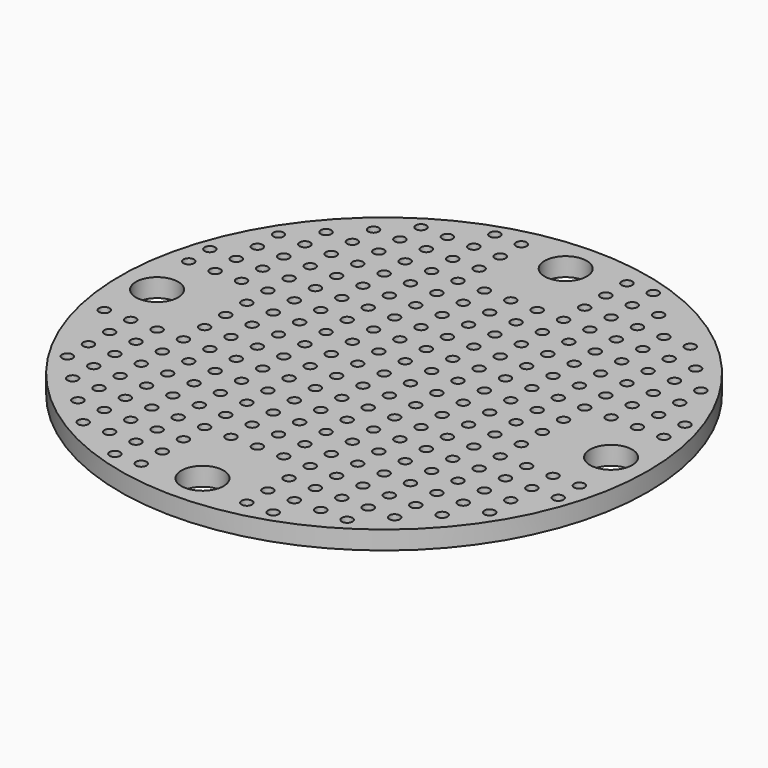
from build123d import *

# Parameters (mm, degrees)
F0_R     = 50
F0_R_2   = 1
F0_R_3   = 4
F1_DEPTH = 3.5


with BuildPart() as f1:
    # F0 (on Top) → F1 (new body)
    with BuildSketch(Plane.XY):
        Circle(F0_R)
        with Locations((-30, -35)):
            Circle(F0_R_2, mode=Mode.SUBTRACT)
        with Locations((-35, -30)):
            Circle(F0_R_2, mode=Mode.SUBTRACT)
        with Locations((-30, -30)):
            Circle(F0_R_2, mode=Mode.SUBTRACT)
        with Locations((-15, -45.000002)):
            Circle(F0_R_2, mode=Mode.SUBTRACT)
        with Locations((-25, -40)):
            Circle(F0_R_2, mode=Mode.SUBTRACT)
        with Locations((-20, -40)):
            Circle(F0_R_2, mode=Mode.SUBTRACT)
        with Locations((-15, -40)):
            Circle(F0_R_2, mode=Mode.SUBTRACT)
        with Locations((-10, -45.000002)):
            Circle(F0_R_2, mode=Mode.SUBTRACT)
        with Locations((-10, -40)):
            Circle(F0_R_2, mode=Mode.SUBTRACT)
        with Locations((-25, -35)):
            Circle(F0_R_2, mode=Mode.SUBTRACT)
        with Locations((-20, -35)):
            Circle(F0_R_2, mode=Mode.SUBTRACT)
        with Locations((-15, -35)):
            Circle(F0_R_2, mode=Mode.SUBTRACT)
        with Locations((-25, -30)):
            Circle(F0_R_2, mode=Mode.SUBTRACT)
        with Locations((-20, -30)):
            Circle(F0_R_2, mode=Mode.SUBTRACT)
        with Locations((-15, -30)):
            Circle(F0_R_2, mode=Mode.SUBTRACT)
        with Locations((-10, -35)):
            Circle(F0_R_2, mode=Mode.SUBTRACT)
        with Locations((-10, -30)):
            Circle(F0_R_2, mode=Mode.SUBTRACT)
        with Locations((-5, -30)):
            Circle(F0_R_2, mode=Mode.SUBTRACT)
        with Locations((-40, -25)):
            Circle(F0_R_2, mode=Mode.SUBTRACT)
        with Locations((-40, -20)):
            Circle(F0_R_2, mode=Mode.SUBTRACT)
        with Locations((-40, -15)):
            Circle(F0_R_2, mode=Mode.SUBTRACT)
        with Locations((-35, -25)):
            Circle(F0_R_2, mode=Mode.SUBTRACT)
        with Locations((-35, -20)):
            Circle(F0_R_2, mode=Mode.SUBTRACT)
        with Locations((-30, -25)):
            Circle(F0_R_2, mode=Mode.SUBTRACT)
        with Locations((-30, -20)):
            Circle(F0_R_2, mode=Mode.SUBTRACT)
        with Locations((-35, -15)):
            Circle(F0_R_2, mode=Mode.SUBTRACT)
        with Locations((-30, -15)):
            Circle(F0_R_2, mode=Mode.SUBTRACT)
        with Locations((-45, -10)):
            Circle(F0_R_2, mode=Mode.SUBTRACT)
        with Locations((-40, -10)):
            Circle(F0_R_2, mode=Mode.SUBTRACT)
        with Locations((-35, -10)):
            Circle(F0_R_2, mode=Mode.SUBTRACT)
        with Locations((-30, -10)):
            Circle(F0_R_2, mode=Mode.SUBTRACT)
        with Locations((-30, -5)):
            Circle(F0_R_2, mode=Mode.SUBTRACT)
        with Locations((-25, -25)):
            Circle(F0_R_2, mode=Mode.SUBTRACT)
        with Locations((-20, -25)):
            Circle(F0_R_2, mode=Mode.SUBTRACT)
        with Locations((-25, -20)):
            Circle(F0_R_2, mode=Mode.SUBTRACT)
        with Locations((-20, -20)):
            Circle(F0_R_2, mode=Mode.SUBTRACT)
        with Locations((-15, -25)):
            Circle(F0_R_2, mode=Mode.SUBTRACT)
        with Locations((-15, -20)):
            Circle(F0_R_2, mode=Mode.SUBTRACT)
        with Locations((-25, -15)):
            Circle(F0_R_2, mode=Mode.SUBTRACT)
        with Locations((-20, -15)):
            Circle(F0_R_2, mode=Mode.SUBTRACT)
        with Locations((-15, -15)):
            Circle(F0_R_2, mode=Mode.SUBTRACT)
        with Locations((-10, -25)):
            Circle(F0_R_2, mode=Mode.SUBTRACT)
        with Locations((-10, -20)):
            Circle(F0_R_2, mode=Mode.SUBTRACT)
        with Locations((-5, -25)):
            Circle(F0_R_2, mode=Mode.SUBTRACT)
        with Locations((-5, -20)):
            Circle(F0_R_2, mode=Mode.SUBTRACT)
        with Locations((-10, -15)):
            Circle(F0_R_2, mode=Mode.SUBTRACT)
        with Locations((-5, -15)):
            Circle(F0_R_2, mode=Mode.SUBTRACT)
        with Locations((-25, -10)):
            Circle(F0_R_2, mode=Mode.SUBTRACT)
        with Locations((-20, -10)):
            Circle(F0_R_2, mode=Mode.SUBTRACT)
        with Locations((-15, -10)):
            Circle(F0_R_2, mode=Mode.SUBTRACT)
        with Locations((-25, -5)):
            Circle(F0_R_2, mode=Mode.SUBTRACT)
        with Locations((-20, -5)):
            Circle(F0_R_2, mode=Mode.SUBTRACT)
        with Locations((-15, -5)):
            Circle(F0_R_2, mode=Mode.SUBTRACT)
        with Locations((-10, -10)):
            Circle(F0_R_2, mode=Mode.SUBTRACT)
        with Locations((-5, -10)):
            Circle(F0_R_2, mode=Mode.SUBTRACT)
        with Locations((-10, -5)):
            Circle(F0_R_2, mode=Mode.SUBTRACT)
        with Locations((-5, -5)):
            Circle(F0_R_2, mode=Mode.SUBTRACT)
        with Locations((10, -45)):
            Circle(F0_R_2, mode=Mode.SUBTRACT)
        with Locations((0, -43)):
            Circle(F0_R_3, mode=Mode.SUBTRACT)
        with Locations((10, -40)):
            Circle(F0_R_2, mode=Mode.SUBTRACT)
        with Locations((15, -45)):
            Circle(F0_R_2, mode=Mode.SUBTRACT)
        with Locations((15, -40)):
            Circle(F0_R_2, mode=Mode.SUBTRACT)
        with Locations((20, -40)):
            Circle(F0_R_2, mode=Mode.SUBTRACT)
        with Locations((10, -35)):
            Circle(F0_R_2, mode=Mode.SUBTRACT)
        with Locations((0, -30)):
            Circle(F0_R_2, mode=Mode.SUBTRACT)
        with Locations((5, -30)):
            Circle(F0_R_2, mode=Mode.SUBTRACT)
        with Locations((10, -30)):
            Circle(F0_R_2, mode=Mode.SUBTRACT)
        with Locations((15, -35)):
            Circle(F0_R_2, mode=Mode.SUBTRACT)
        with Locations((20, -35)):
            Circle(F0_R_2, mode=Mode.SUBTRACT)
        with Locations((15, -30)):
            Circle(F0_R_2, mode=Mode.SUBTRACT)
        with Locations((20, -30)):
            Circle(F0_R_2, mode=Mode.SUBTRACT)
        with Locations((25, -40)):
            Circle(F0_R_2, mode=Mode.SUBTRACT)
        with Locations((25, -35)):
            Circle(F0_R_2, mode=Mode.SUBTRACT)
        with Locations((30, -35)):
            Circle(F0_R_2, mode=Mode.SUBTRACT)
        with Locations((25, -30)):
            Circle(F0_R_2, mode=Mode.SUBTRACT)
        with Locations((30, -30)):
            Circle(F0_R_2, mode=Mode.SUBTRACT)
        with Locations((35, -30)):
            Circle(F0_R_2, mode=Mode.SUBTRACT)
        with Locations((0, -25)):
            Circle(F0_R_2, mode=Mode.SUBTRACT)
        with Locations((5, -25)):
            Circle(F0_R_2, mode=Mode.SUBTRACT)
        with Locations((0, -20)):
            Circle(F0_R_2, mode=Mode.SUBTRACT)
        with Locations((5, -20)):
            Circle(F0_R_2, mode=Mode.SUBTRACT)
        with Locations((10, -25)):
            Circle(F0_R_2, mode=Mode.SUBTRACT)
        with Locations((10, -20)):
            Circle(F0_R_2, mode=Mode.SUBTRACT)
        with Locations((0, -15)):
            Circle(F0_R_2, mode=Mode.SUBTRACT)
        with Locations((5, -15)):
            Circle(F0_R_2, mode=Mode.SUBTRACT)
        with Locations((10, -15)):
            Circle(F0_R_2, mode=Mode.SUBTRACT)
        with Locations((15, -25)):
            Circle(F0_R_2, mode=Mode.SUBTRACT)
        with Locations((15, -20)):
            Circle(F0_R_2, mode=Mode.SUBTRACT)
        with Locations((20, -25)):
            Circle(F0_R_2, mode=Mode.SUBTRACT)
        with Locations((20, -20)):
            Circle(F0_R_2, mode=Mode.SUBTRACT)
        with Locations((15, -15)):
            Circle(F0_R_2, mode=Mode.SUBTRACT)
        with Locations((20, -15)):
            Circle(F0_R_2, mode=Mode.SUBTRACT)
        with Locations((0, -10)):
            Circle(F0_R_2, mode=Mode.SUBTRACT)
        with Locations((5, -10)):
            Circle(F0_R_2, mode=Mode.SUBTRACT)
        with Locations((10, -10)):
            Circle(F0_R_2, mode=Mode.SUBTRACT)
        with Locations((0, -5)):
            Circle(F0_R_2, mode=Mode.SUBTRACT)
        with Locations((5, -5)):
            Circle(F0_R_2, mode=Mode.SUBTRACT)
        with Locations((10, -5)):
            Circle(F0_R_2, mode=Mode.SUBTRACT)
        with Locations((15, -10)):
            Circle(F0_R_2, mode=Mode.SUBTRACT)
        with Locations((20, -10)):
            Circle(F0_R_2, mode=Mode.SUBTRACT)
        with Locations((15, -5)):
            Circle(F0_R_2, mode=Mode.SUBTRACT)
        with Locations((20, -5)):
            Circle(F0_R_2, mode=Mode.SUBTRACT)
        with Locations((25, -25)):
            Circle(F0_R_2, mode=Mode.SUBTRACT)
        with Locations((30, -25)):
            Circle(F0_R_2, mode=Mode.SUBTRACT)
        with Locations((25, -20)):
            Circle(F0_R_2, mode=Mode.SUBTRACT)
        with Locations((30, -20)):
            Circle(F0_R_2, mode=Mode.SUBTRACT)
        with Locations((35, -25)):
            Circle(F0_R_2, mode=Mode.SUBTRACT)
        with Locations((35, -20)):
            Circle(F0_R_2, mode=Mode.SUBTRACT)
        with Locations((25, -15)):
            Circle(F0_R_2, mode=Mode.SUBTRACT)
        with Locations((30, -15)):
            Circle(F0_R_2, mode=Mode.SUBTRACT)
        with Locations((35, -15)):
            Circle(F0_R_2, mode=Mode.SUBTRACT)
        with Locations((40, -25)):
            Circle(F0_R_2, mode=Mode.SUBTRACT)
        with Locations((40, -20)):
            Circle(F0_R_2, mode=Mode.SUBTRACT)
        with Locations((40, -15)):
            Circle(F0_R_2, mode=Mode.SUBTRACT)
        with Locations((45, -15)):
            Circle(F0_R_2, mode=Mode.SUBTRACT)
        with Locations((25, -10)):
            Circle(F0_R_2, mode=Mode.SUBTRACT)
        with Locations((30, -10)):
            Circle(F0_R_2, mode=Mode.SUBTRACT)
        with Locations((35, -10)):
            Circle(F0_R_2, mode=Mode.SUBTRACT)
        with Locations((25, -5)):
            Circle(F0_R_2, mode=Mode.SUBTRACT)
        with Locations((30, -5)):
            Circle(F0_R_2, mode=Mode.SUBTRACT)
        with Locations((40, -10)):
            Circle(F0_R_2, mode=Mode.SUBTRACT)
        with Locations((45, -10)):
            Circle(F0_R_2, mode=Mode.SUBTRACT)
        with Locations((-43, 0)):
            Circle(F0_R_3, mode=Mode.SUBTRACT)
        with Locations((-45, 10)):
            Circle(F0_R_2, mode=Mode.SUBTRACT)
        with Locations((-40, 10)):
            Circle(F0_R_2, mode=Mode.SUBTRACT)
        with Locations((-30, 0)):
            Circle(F0_R_2, mode=Mode.SUBTRACT)
        with Locations((-30, 5)):
            Circle(F0_R_2, mode=Mode.SUBTRACT)
        with Locations((-35, 10)):
            Circle(F0_R_2, mode=Mode.SUBTRACT)
        with Locations((-30, 10)):
            Circle(F0_R_2, mode=Mode.SUBTRACT)
        with Locations((-45, 15)):
            Circle(F0_R_2, mode=Mode.SUBTRACT)
        with Locations((-40, 15)):
            Circle(F0_R_2, mode=Mode.SUBTRACT)
        with Locations((-40, 20)):
            Circle(F0_R_2, mode=Mode.SUBTRACT)
        with Locations((-35, 15)):
            Circle(F0_R_2, mode=Mode.SUBTRACT)
        with Locations((-30, 15)):
            Circle(F0_R_2, mode=Mode.SUBTRACT)
        with Locations((-35, 20)):
            Circle(F0_R_2, mode=Mode.SUBTRACT)
        with Locations((-30, 20)):
            Circle(F0_R_2, mode=Mode.SUBTRACT)
        with Locations((-25, 0)):
            Circle(F0_R_2, mode=Mode.SUBTRACT)
        with Locations((-20, 0)):
            Circle(F0_R_2, mode=Mode.SUBTRACT)
        with Locations((-25, 5)):
            Circle(F0_R_2, mode=Mode.SUBTRACT)
        with Locations((-20, 5)):
            Circle(F0_R_2, mode=Mode.SUBTRACT)
        with Locations((-15, 0)):
            Circle(F0_R_2, mode=Mode.SUBTRACT)
        with Locations((-15, 5)):
            Circle(F0_R_2, mode=Mode.SUBTRACT)
        with Locations((-25, 10)):
            Circle(F0_R_2, mode=Mode.SUBTRACT)
        with Locations((-20, 10)):
            Circle(F0_R_2, mode=Mode.SUBTRACT)
        with Locations((-15, 10)):
            Circle(F0_R_2, mode=Mode.SUBTRACT)
        with Locations((-10, 0)):
            Circle(F0_R_2, mode=Mode.SUBTRACT)
        with Locations((-10, 5)):
            Circle(F0_R_2, mode=Mode.SUBTRACT)
        with Locations((-5, 0)):
            Circle(F0_R_2, mode=Mode.SUBTRACT)
        with Locations((-5, 5)):
            Circle(F0_R_2, mode=Mode.SUBTRACT)
        with Locations((-10, 10)):
            Circle(F0_R_2, mode=Mode.SUBTRACT)
        with Locations((-5, 10)):
            Circle(F0_R_2, mode=Mode.SUBTRACT)
        with Locations((-25, 15)):
            Circle(F0_R_2, mode=Mode.SUBTRACT)
        with Locations((-20, 15)):
            Circle(F0_R_2, mode=Mode.SUBTRACT)
        with Locations((-15, 15)):
            Circle(F0_R_2, mode=Mode.SUBTRACT)
        with Locations((-25, 20)):
            Circle(F0_R_2, mode=Mode.SUBTRACT)
        with Locations((-20, 20)):
            Circle(F0_R_2, mode=Mode.SUBTRACT)
        with Locations((-15, 20)):
            Circle(F0_R_2, mode=Mode.SUBTRACT)
        with Locations((-10, 15)):
            Circle(F0_R_2, mode=Mode.SUBTRACT)
        with Locations((-5, 15)):
            Circle(F0_R_2, mode=Mode.SUBTRACT)
        with Locations((-10, 20)):
            Circle(F0_R_2, mode=Mode.SUBTRACT)
        with Locations((-5, 20)):
            Circle(F0_R_2, mode=Mode.SUBTRACT)
        with Locations((-40, 25)):
            Circle(F0_R_2, mode=Mode.SUBTRACT)
        with Locations((-35, 25)):
            Circle(F0_R_2, mode=Mode.SUBTRACT)
        with Locations((-35, 30)):
            Circle(F0_R_2, mode=Mode.SUBTRACT)
        with Locations((-30, 25)):
            Circle(F0_R_2, mode=Mode.SUBTRACT)
        with Locations((-30, 30)):
            Circle(F0_R_2, mode=Mode.SUBTRACT)
        with Locations((-30, 35)):
            Circle(F0_R_2, mode=Mode.SUBTRACT)
        with Locations((-25, 25)):
            Circle(F0_R_2, mode=Mode.SUBTRACT)
        with Locations((-20, 25)):
            Circle(F0_R_2, mode=Mode.SUBTRACT)
        with Locations((-25, 30)):
            Circle(F0_R_2, mode=Mode.SUBTRACT)
        with Locations((-20, 30)):
            Circle(F0_R_2, mode=Mode.SUBTRACT)
        with Locations((-15, 25)):
            Circle(F0_R_2, mode=Mode.SUBTRACT)
        with Locations((-15, 30)):
            Circle(F0_R_2, mode=Mode.SUBTRACT)
        with Locations((-25, 35)):
            Circle(F0_R_2, mode=Mode.SUBTRACT)
        with Locations((-20, 35)):
            Circle(F0_R_2, mode=Mode.SUBTRACT)
        with Locations((-15, 35)):
            Circle(F0_R_2, mode=Mode.SUBTRACT)
        with Locations((-10, 25)):
            Circle(F0_R_2, mode=Mode.SUBTRACT)
        with Locations((-10, 30)):
            Circle(F0_R_2, mode=Mode.SUBTRACT)
        with Locations((-5, 25)):
            Circle(F0_R_2, mode=Mode.SUBTRACT)
        with Locations((-5, 30)):
            Circle(F0_R_2, mode=Mode.SUBTRACT)
        with Locations((-10, 35)):
            Circle(F0_R_2, mode=Mode.SUBTRACT)
        with Locations((-25, 40)):
            Circle(F0_R_2, mode=Mode.SUBTRACT)
        with Locations((-20, 40)):
            Circle(F0_R_2, mode=Mode.SUBTRACT)
        with Locations((-15, 40)):
            Circle(F0_R_2, mode=Mode.SUBTRACT)
        with Locations((-15, 45)):
            Circle(F0_R_2, mode=Mode.SUBTRACT)
        with Locations((-10, 40)):
            Circle(F0_R_2, mode=Mode.SUBTRACT)
        with Locations((-10, 45)):
            Circle(F0_R_2, mode=Mode.SUBTRACT)
        Circle(F0_R_2, mode=Mode.SUBTRACT)
        with Locations((5, 0)):
            Circle(F0_R_2, mode=Mode.SUBTRACT)
        with Locations((0, 5)):
            Circle(F0_R_2, mode=Mode.SUBTRACT)
        with Locations((5, 5)):
            Circle(F0_R_2, mode=Mode.SUBTRACT)
        with Locations((10, 0)):
            Circle(F0_R_2, mode=Mode.SUBTRACT)
        with Locations((10, 5)):
            Circle(F0_R_2, mode=Mode.SUBTRACT)
        with Locations((0, 10)):
            Circle(F0_R_2, mode=Mode.SUBTRACT)
        with Locations((5, 10)):
            Circle(F0_R_2, mode=Mode.SUBTRACT)
        with Locations((10, 10)):
            Circle(F0_R_2, mode=Mode.SUBTRACT)
        with Locations((15, 0)):
            Circle(F0_R_2, mode=Mode.SUBTRACT)
        with Locations((15, 5)):
            Circle(F0_R_2, mode=Mode.SUBTRACT)
        with Locations((20, 0)):
            Circle(F0_R_2, mode=Mode.SUBTRACT)
        with Locations((20, 5)):
            Circle(F0_R_2, mode=Mode.SUBTRACT)
        with Locations((15, 10)):
            Circle(F0_R_2, mode=Mode.SUBTRACT)
        with Locations((20, 10)):
            Circle(F0_R_2, mode=Mode.SUBTRACT)
        with Locations((0, 15)):
            Circle(F0_R_2, mode=Mode.SUBTRACT)
        with Locations((5, 15)):
            Circle(F0_R_2, mode=Mode.SUBTRACT)
        with Locations((10, 15)):
            Circle(F0_R_2, mode=Mode.SUBTRACT)
        with Locations((0, 20)):
            Circle(F0_R_2, mode=Mode.SUBTRACT)
        with Locations((5, 20)):
            Circle(F0_R_2, mode=Mode.SUBTRACT)
        with Locations((10, 20)):
            Circle(F0_R_2, mode=Mode.SUBTRACT)
        with Locations((15, 15)):
            Circle(F0_R_2, mode=Mode.SUBTRACT)
        with Locations((20, 15)):
            Circle(F0_R_2, mode=Mode.SUBTRACT)
        with Locations((15, 20)):
            Circle(F0_R_2, mode=Mode.SUBTRACT)
        with Locations((20, 20)):
            Circle(F0_R_2, mode=Mode.SUBTRACT)
        with Locations((25, 0)):
            Circle(F0_R_2, mode=Mode.SUBTRACT)
        with Locations((30, 0)):
            Circle(F0_R_2, mode=Mode.SUBTRACT)
        with Locations((25, 5)):
            Circle(F0_R_2, mode=Mode.SUBTRACT)
        with Locations((30, 5)):
            Circle(F0_R_2, mode=Mode.SUBTRACT)
        with Locations((25, 10)):
            Circle(F0_R_2, mode=Mode.SUBTRACT)
        with Locations((30, 10)):
            Circle(F0_R_2, mode=Mode.SUBTRACT)
        with Locations((35, 10)):
            Circle(F0_R_2, mode=Mode.SUBTRACT)
        with Locations((43, 0)):
            Circle(F0_R_3, mode=Mode.SUBTRACT)
        with Locations((40, 10)):
            Circle(F0_R_2, mode=Mode.SUBTRACT)
        with Locations((45, 10)):
            Circle(F0_R_2, mode=Mode.SUBTRACT)
        with Locations((25, 15)):
            Circle(F0_R_2, mode=Mode.SUBTRACT)
        with Locations((30, 15)):
            Circle(F0_R_2, mode=Mode.SUBTRACT)
        with Locations((35, 15)):
            Circle(F0_R_2, mode=Mode.SUBTRACT)
        with Locations((25, 20)):
            Circle(F0_R_2, mode=Mode.SUBTRACT)
        with Locations((30, 20)):
            Circle(F0_R_2, mode=Mode.SUBTRACT)
        with Locations((35, 20)):
            Circle(F0_R_2, mode=Mode.SUBTRACT)
        with Locations((40, 15)):
            Circle(F0_R_2, mode=Mode.SUBTRACT)
        with Locations((45, 15)):
            Circle(F0_R_2, mode=Mode.SUBTRACT)
        with Locations((40, 20)):
            Circle(F0_R_2, mode=Mode.SUBTRACT)
        with Locations((0, 25)):
            Circle(F0_R_2, mode=Mode.SUBTRACT)
        with Locations((5, 25)):
            Circle(F0_R_2, mode=Mode.SUBTRACT)
        with Locations((0, 30)):
            Circle(F0_R_2, mode=Mode.SUBTRACT)
        with Locations((5, 30)):
            Circle(F0_R_2, mode=Mode.SUBTRACT)
        with Locations((10, 25)):
            Circle(F0_R_2, mode=Mode.SUBTRACT)
        with Locations((10, 30)):
            Circle(F0_R_2, mode=Mode.SUBTRACT)
        with Locations((10, 35)):
            Circle(F0_R_2, mode=Mode.SUBTRACT)
        with Locations((15, 25)):
            Circle(F0_R_2, mode=Mode.SUBTRACT)
        with Locations((15, 30)):
            Circle(F0_R_2, mode=Mode.SUBTRACT)
        with Locations((20, 25)):
            Circle(F0_R_2, mode=Mode.SUBTRACT)
        with Locations((20, 30)):
            Circle(F0_R_2, mode=Mode.SUBTRACT)
        with Locations((15, 35)):
            Circle(F0_R_2, mode=Mode.SUBTRACT)
        with Locations((20, 35)):
            Circle(F0_R_2, mode=Mode.SUBTRACT)
        with Locations((0, 43)):
            Circle(F0_R_3, mode=Mode.SUBTRACT)
        with Locations((10, 40)):
            Circle(F0_R_2, mode=Mode.SUBTRACT)
        with Locations((10, 45)):
            Circle(F0_R_2, mode=Mode.SUBTRACT)
        with Locations((15, 40)):
            Circle(F0_R_2, mode=Mode.SUBTRACT)
        with Locations((20, 40)):
            Circle(F0_R_2, mode=Mode.SUBTRACT)
        with Locations((15, 45)):
            Circle(F0_R_2, mode=Mode.SUBTRACT)
        with Locations((25, 25)):
            Circle(F0_R_2, mode=Mode.SUBTRACT)
        with Locations((30, 25)):
            Circle(F0_R_2, mode=Mode.SUBTRACT)
        with Locations((25, 30)):
            Circle(F0_R_2, mode=Mode.SUBTRACT)
        with Locations((30, 30)):
            Circle(F0_R_2, mode=Mode.SUBTRACT)
        with Locations((35, 25)):
            Circle(F0_R_2, mode=Mode.SUBTRACT)
        with Locations((35, 30)):
            Circle(F0_R_2, mode=Mode.SUBTRACT)
        with Locations((25, 35)):
            Circle(F0_R_2, mode=Mode.SUBTRACT)
        with Locations((30, 35)):
            Circle(F0_R_2, mode=Mode.SUBTRACT)
        with Locations((40, 25)):
            Circle(F0_R_2, mode=Mode.SUBTRACT)
    extrude(amount=F1_DEPTH)


solid = f1.part
